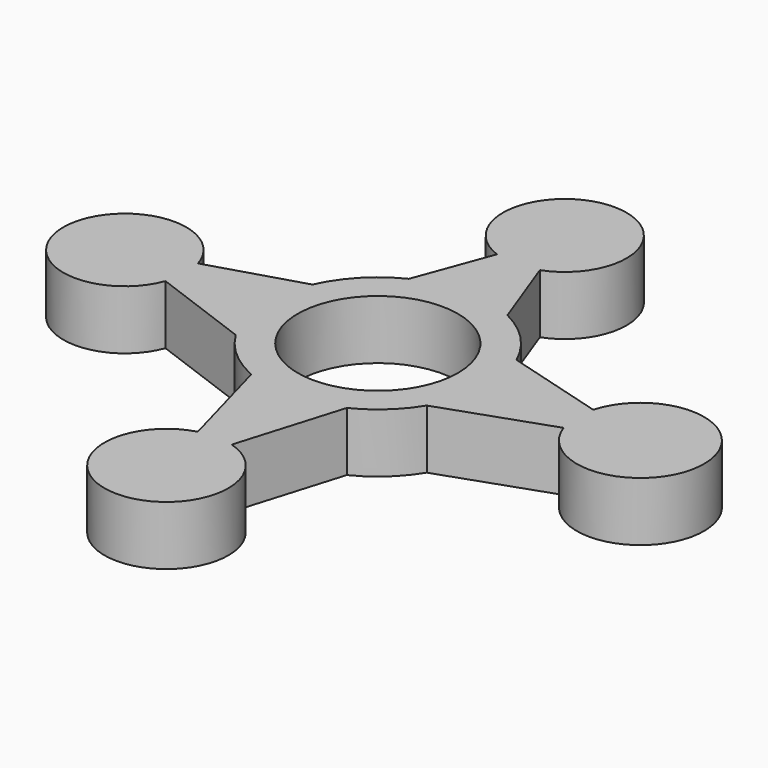
from build123d import *

# Parameters (mm, degrees)
F1_DEPTH = 9.652
F2_R     = 13.09002
F3_DEPTH = 25.4
F5_DEPTH = 9.6012
F4_R     = 10.091384
F4_R_2   = 10.048358
F4_R_3   = 10.112855
F4_R_4   = 10.396181
F6_DEPTH = 9.652
F7_R     = 6.272016
F7_R_2   = 6.127507
F7_R_3   = 6.686235
F7_R_4   = 6.957728
F8_DEPTH = 1.778


with BuildPart() as f1:
    # F0 (on Top) → F1 (new body)
    with BuildSketch(Plane.XY):
        with BuildLine():
            ThreePointArc((-15.598199, -9.505272), (-18.230297, -1.14468), (-16.664672, 7.479486))
            Line((-16.664672, 7.479486), (-41.31664, 0))
            Line((-41.31664, 0), (-15.598199, -9.505272))
        make_face()
        with BuildLine():
            ThreePointArc((16.664672, 7.479486), (17.86133, 3.824513), (18.266199, 0))
            ThreePointArc((18.266199, 0), (17.586555, -4.936305), (15.598199, -9.505272))
            Line((15.598199, -9.505272), (42.890608, 0))
            Line((42.890608, 0), (16.664672, 7.479486))
        make_face()
        with BuildLine():
            Line((0, -43.152936), (8.045985, -16.398663))
            ThreePointArc((8.045985, -16.398663), (0.43413, -18.261039), (-7.257626, -16.762484))
            Line((-7.257626, -16.762484), (0, -43.152936))
        make_face()
        with BuildLine():
            ThreePointArc((15.598199, -9.505272), (17.586555, -4.936305), (18.266199, 0))
            ThreePointArc((18.266199, 0), (17.86133, 3.824513), (16.664672, 7.479486))
            ThreePointArc((16.664672, 7.479486), (13.135527, 12.692988), (8.045985, 16.398663))
            ThreePointArc((8.045985, 16.398663), (0, 18.266199), (-8.045985, 16.398663))
            ThreePointArc((-8.045985, 16.398663), (-13.135527, 12.692988), (-16.664672, 7.479486))
            ThreePointArc((-16.664672, 7.479486), (-18.230297, -1.14468), (-15.598199, -9.505272))
            ThreePointArc((-15.598199, -9.505272), (-11.990162, -13.78006), (-7.257626, -16.762484))
            ThreePointArc((-7.257626, -16.762484), (0.43413, -18.261039), (8.045985, -16.398663))
            ThreePointArc((8.045985, -16.398663), (12.314283, -13.491199), (15.598199, -9.505272))
        make_face()
        with BuildLine():
            ThreePointArc((-8.045985, 16.398663), (0, 18.266199), (8.045985, 16.398663))
            Line((8.045985, 16.398663), (0, 38.168706))
            Line((0, 38.168706), (-8.045985, 16.398663))
        make_face()
    extrude(amount=F1_DEPTH)

    # F2 (on face) → F3 (cut)
    with BuildSketch(Plane(origin=(0, 0, 0), x_dir=(1, 0, 0), z_dir=(0, 0, -1))):
        Circle(F2_R)
    extrude(amount=-F3_DEPTH, mode=Mode.SUBTRACT)

    # F4 (on face) → F5 (join)
    with BuildSketch(Plane(origin=(0, 0, 0), x_dir=(1, 0, 0), z_dir=(0, 0, -1))):
        with BuildLine():
            Line((0, -38.168706), (3.498384, -28.703119))
            ThreePointArc((3.498384, -28.703119), (0, -28.077322), (-3.498384, -28.703119))
            Line((-3.498384, -28.703119), (0, -38.168706))
        make_face()
    extrude(amount=-F5_DEPTH)

    # F4 (on face) → F6 (join)
    with BuildSketch(Plane(origin=(0, 0, 0), x_dir=(1, 0, 0), z_dir=(0, 0, -1))):
        with Locations((0, -38.168706)):
            Circle(F4_R)
        with Locations((-41.31664, 0)):
            Circle(F4_R_2)
        with Locations((0, 43.152936)):
            Circle(F4_R_3)
        with Locations((42.890608, 0)):
            Circle(F4_R_4)
    extrude(amount=-F6_DEPTH)

    # F7 (on face) → F8 (join)
    with BuildSketch(Plane(origin=(0, 0, 0), x_dir=(1, 0, 0), z_dir=(0, 0, -1))):
        with Locations((-41.31664, 0)):
            Circle(F7_R)
        with Locations((0, -38.168706)):
            Circle(F7_R_2)
        with Locations((0, 43.152936)):
            Circle(F7_R_3)
        with Locations((42.890608, 0)):
            Circle(F7_R_4)
    extrude(amount=F8_DEPTH)


solid = f1.part
